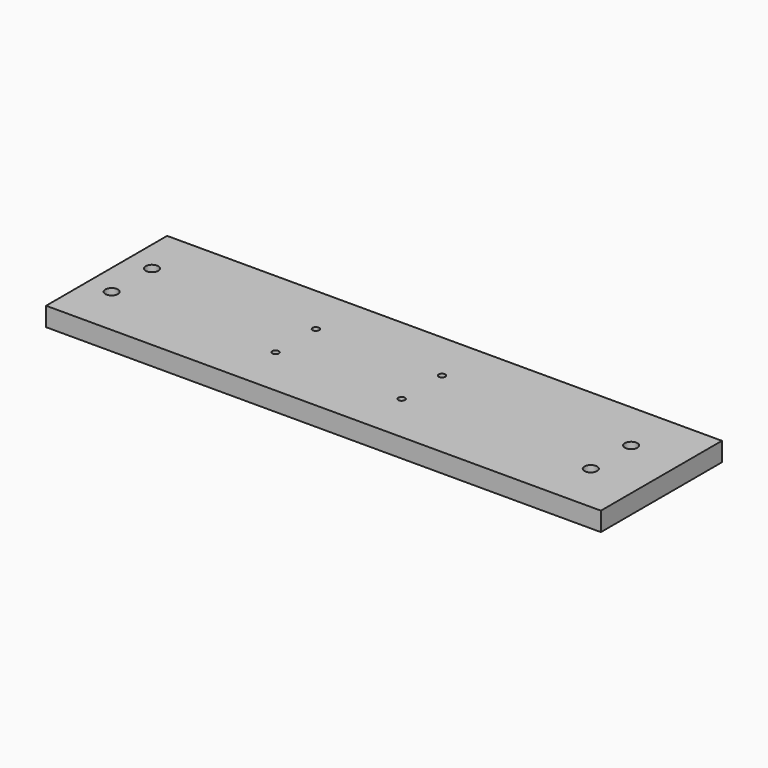
from build123d import *

# Parameters (mm, degrees)
F0_W     = 279.4
F0_H     = 76.2
F1_DEPTH = 9.525
F2_R     = 3.175
F2_R_2   = 1.651
F3_DEPTH = 25.4


with BuildPart() as f1:
    # F0 (on Top) → F1 (new body)
    with BuildSketch(Plane.XY):
        with Locations((-139.7, -38.1)):
            Rectangle(F0_W, F0_H)
    extrude(amount=F1_DEPTH)

    # F2 (on face) → F3 (cut)
    with BuildSketch(Plane.XY.offset(9.525)):
        with Locations((-266.7, -25.4)):
            Circle(F2_R)
        with Locations((-266.7, -50.8)):
            Circle(F2_R)
        with Locations((-25.4, -50.8)):
            Circle(F2_R)
        with Locations((-25.4, -25.4)):
            Circle(F2_R)
        with Locations((-120.65, -50.8)):
            Circle(F2_R_2)
        with Locations((-120.65, -25.4)):
            Circle(F2_R_2)
        with Locations((-184.15, -50.8)):
            Circle(F2_R_2)
        with Locations((-184.15, -25.4)):
            Circle(F2_R_2)
    extrude(amount=-F3_DEPTH, mode=Mode.SUBTRACT)


solid = f1.part
